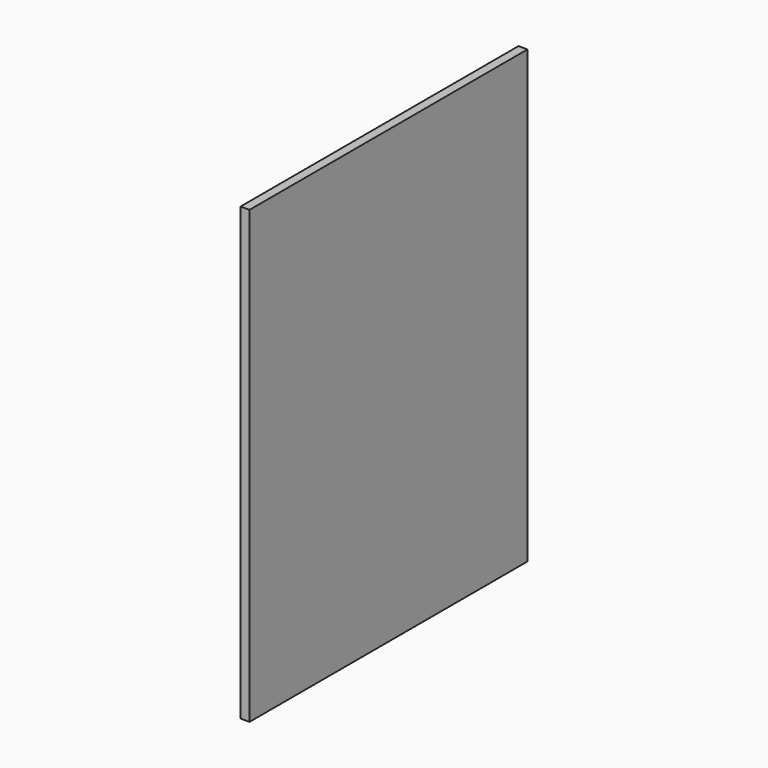
from build123d import *

# Parameters (mm, degrees)
F0_W      = 736.6
F0_H      = 955.675
F1_DEPTH  = 19.05
F3_D      = 8.001
F3_DEPTH  = 14.224
F3_TIP    = 2.4037429064
F5_D      = 3.175
F5_DEPTH  = 14.224
F5_TIP    = 0.9538662327
F6_D      = 8.001
F6_DEPTH  = 14.224
F6_TIP    = 2.4037429064
F8_D      = 5.0038
F8_DEPTH  = 14.224
F8_TIP    = 1.5032931827
F12_D     = 5.0038
F12_DEPTH = 14.224
F12_TIP   = 1.5032931827


with BuildPart() as f1:
    # F0 (on Right) → F1 (new body)
    with BuildSketch(Plane.YZ):
        Rectangle(F0_W, F0_H)
    extrude(amount=F1_DEPTH)

    # F3
    with Locations(Plane.YZ.offset(19.05)):
        with Locations((-298.45, 468.3125), (9.525, 468.3125), (317.5, 468.3125), (-358.775, 427.0375), (-358.775, -427.0375), (-298.45, -468.3125), (9.525, -468.3125), (317.5, -468.3125), (-358.775, 203.2), (-358.775, -203.2)):
            Hole(F3_D / 2, depth=F3_DEPTH)
            with Locations((0, 0, -(F3_DEPTH + F3_TIP / 2))):  # 118° drill point
                Cone(0, F3_D / 2, F3_TIP, mode=Mode.SUBTRACT)

    # F5
    with Locations(Plane.YZ.offset(19.05)):
        with Locations((-150.876, 360.2355), (139.7, 360.2355), (320.04, 360.2355), (320.04, 77.7875), (139.7, 77.7875), (-150.876, 77.7875)):
            Hole(F5_D / 2, depth=F5_DEPTH)
            with Locations((0, 0, -(F5_DEPTH + F5_TIP / 2))):  # 118° drill point
                Cone(0, F5_D / 2, F5_TIP, mode=Mode.SUBTRACT)

    # F6
    with Locations(Plane.YZ.offset(19.05)):
        with Locations((-298.45, -6.35), (9.525, -6.35), (317.5, -6.35)):
            Hole(F6_D / 2, depth=F6_DEPTH)
            with Locations((0, 0, -(F6_DEPTH + F6_TIP / 2))):  # 118° drill point
                Cone(0, F6_D / 2, F6_TIP, mode=Mode.SUBTRACT)

    # F8
    with Locations(Plane.YZ.offset(19.05)):
        with Locations((-292.1, -103.1875), (-292.1, -134.9375), (-293.6950922012, -167.6699370146), (-292.1, -198.4375), (-292.1, -230.1875), (-292.1, -261.9375), (-292.1, -293.6875), (-292.1, -325.4375), (-292.1, -357.1875), (292.1, -357.1875), (292.1, -325.4375), (291.5244102478, -294.0462231636), (292.1, -261.9375), (292.1, -230.1875), (292.1, -198.4375), (289.5801663399, -165.7256782055), (292.1, -134.9375), (292.1, -103.1875)):
            Hole(F8_D / 2, depth=F8_DEPTH)
            with Locations((0, 0, -(F8_DEPTH + F8_TIP / 2))):  # 118° drill point
                Cone(0, F8_D / 2, F8_TIP, mode=Mode.SUBTRACT)


with BuildPart() as f9_1:
    # F9: instance of F1
    add(f1.part.mirror(Plane(origin=(19.05, 0.0896939514, 0.1024904778), x_dir=(0, 1, 0), z_dir=(1, 0, 0))))

    # F12
    with Locations(Plane(origin=(19.05, 0, 0), x_dir=(0, -1, 0), z_dir=(-1, 0, 0))):
        with Locations((-331.724, -80.9625), (-331.724, -112.7125), (-331.724, -373.0625), (-331.724, -404.8125)):
            Hole(F12_D / 2, depth=F12_DEPTH)
            with Locations((0, 0, -(F12_DEPTH + F12_TIP / 2))):  # 118° drill point
                Cone(0, F12_D / 2, F12_TIP, mode=Mode.SUBTRACT)


solid = f9_1.part
